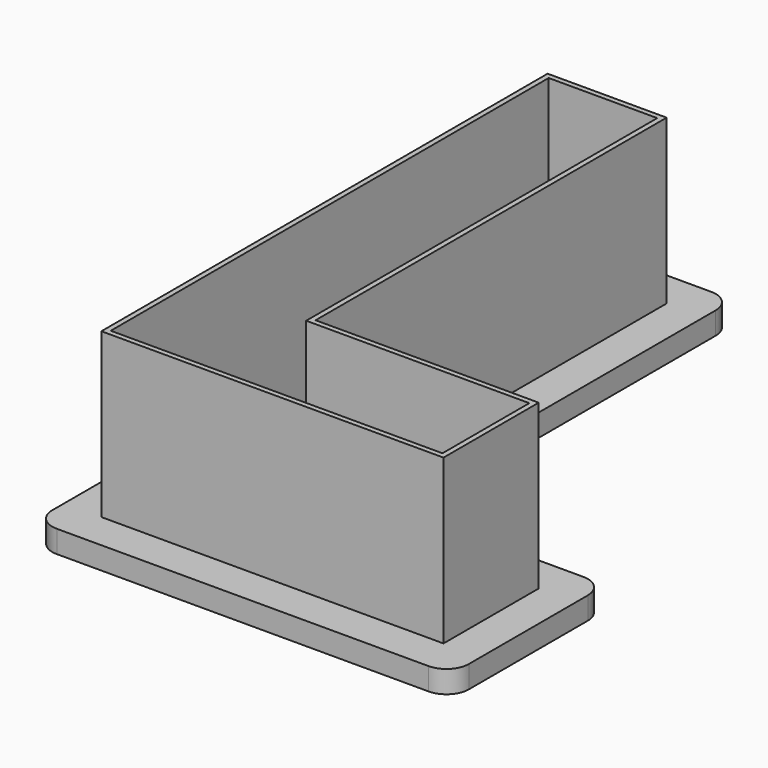
from build123d import *

# Parameters (mm, degrees)
F1_DEPTH = 3
F2_DEPTH = 25
F3_R     = 3


with BuildPart() as f1:
    # F0 (on Top) → F1 (new body)
    with BuildSketch(Plane.XY):
        Polygon((34.9999997169, -20.9999997169), (34.9999997169, 4.9999997169), (4.9999997169, 4.9999997169), (4.9999997169, 63.9999997169), (-20.9999997169, 63.9999997169), (-20.9999997169, -20.9999997169), align=None)
        Polygon((0, 59), (0, 0), (30, 0), (30, -16), (-16, -16), (-16, 59), align=None, mode=Mode.SUBTRACT)
        Polygon((30, 0), (0, 0), (0, 59), (-16, 59), (-16, -16), (30, -16), align=None)
        Polygon((-15.3, 58.3), (-0.7, 58.3), (-0.7, -0.7), (29.3, -0.7), (29.3, -15.3), (-15.3, -15.3), align=None, mode=Mode.SUBTRACT)
        Polygon((-0.7, -0.7), (-0.7, 58.3), (-15.3, 58.3), (-15.3, -15.3), (29.3, -15.3), (29.3, -0.7), align=None)
        Polygon((28.3, -1.7), (28.3, -14.3), (-14.3, -14.3), (-14.3, 57.3), (-1.7, 57.3), (-1.7, -1.7), align=None, mode=Mode.SUBTRACT)
    extrude(amount=F1_DEPTH)

    # F0 (on Top) → F2 (join)
    with BuildSketch(Plane.XY):
        Polygon((30, 0), (0, 0), (0, 59), (-16, 59), (-16, -16), (30, -16), align=None)
        Polygon((-15.3, 58.3), (-0.7, 58.3), (-0.7, -0.7), (29.3, -0.7), (29.3, -15.3), (-15.3, -15.3), align=None, mode=Mode.SUBTRACT)
    extrude(amount=F2_DEPTH)

    # F3
    f3_edges = [f1.edges().sort_by_distance(p)[0] for p in [
        (35, -21, 1.5),
        (35, 5, 1.5),
        (5, 5, 1.5),
        (5, 64, 1.5),
        (-21, 64, 1.5),
        (-21, -21, 1.5),
        (-14.3, -14.3, 1.5),
        (-1.7, -1.7, 1.5),
        (28.3, -14.3, 1.5),
        (28.3, -1.7, 1.5),
        (-1.7, 57.3, 1.5),
        (-14.3, 57.3, 1.5),
    ]]
    fillet(f3_edges, radius=F3_R)


solid = f1.part
